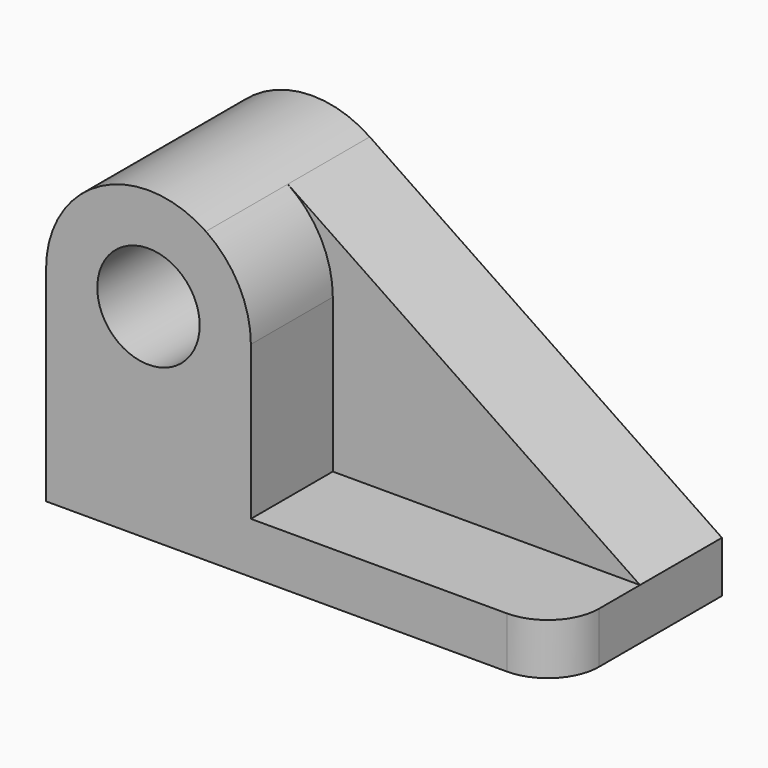
from build123d import *

# Parameters (mm, degrees)
F0_R     = 12.7
F1_DEPTH = 25.4
F2_R     = 12.7
F3_DEPTH = 25.4
F4_R     = 12.7


with BuildPart() as f1:
    # F0 (on Front) → F1 (new body)
    with BuildSketch(Plane.XZ):
        with BuildLine():
            Line((63.2102192245, 24.8065853164), (-24.1453470714, 83.9364713942))
            ThreePointArc((-24.1453470714, 83.9364713942), (-50.2925406218, 85.3450413248), (-63.7897807755, 62.9065853164))
            Line((-63.7897807755, 62.9065853164), (-63.7897807755, 12.1065853164))
            Line((-63.7897807755, 12.1065853164), (63.2102192245, 12.1065853164))
            Line((63.2102192245, 12.1065853164), (63.2102192245, 24.8065853164))
        make_face()
        with Locations((-38.3897807755, 62.9065853164)):
            Circle(F0_R, mode=Mode.SUBTRACT)
    extrude(amount=F1_DEPTH)

    # F2 (on face) → F3 (join)
    with BuildSketch(Plane.XZ.offset(25.4)):
        with BuildLine():
            Line((-12.9897807755, 24.8065853164), (-12.9897807755, 62.9065853164))
            ThreePointArc((-12.9897807755, 62.9065853164), (-15.9513247671, 74.8093451626), (-24.1453470714, 83.9364713942))
            ThreePointArc((-24.1453470714, 83.9364713942), (-50.2925406218, 85.3450413248), (-63.7897807755, 62.9065853164))
            Line((-63.7897807755, 62.9065853164), (-63.7897807755, 24.8065853164))
            Line((-63.7897807755, 24.8065853164), (-63.7897807755, 12.1065853164))
            Line((-63.7897807755, 12.1065853164), (63.2102192245, 12.1065853164))
            Line((63.2102192245, 12.1065853164), (63.2102192245, 24.8065853164))
            Line((63.2102192245, 24.8065853164), (-12.9897807755, 24.8065853164))
        make_face()
        with Locations((-38.3897807755, 62.9065853164)):
            Circle(F2_R, mode=Mode.SUBTRACT)
    extrude(amount=F3_DEPTH)

    # F4
    f4_edges = [f1.edges().sort_by_distance(p)[0] for p in [
        (63.210219, -50.8, 18.456585),
    ]]
    fillet(f4_edges, radius=F4_R)


solid = f1.part
